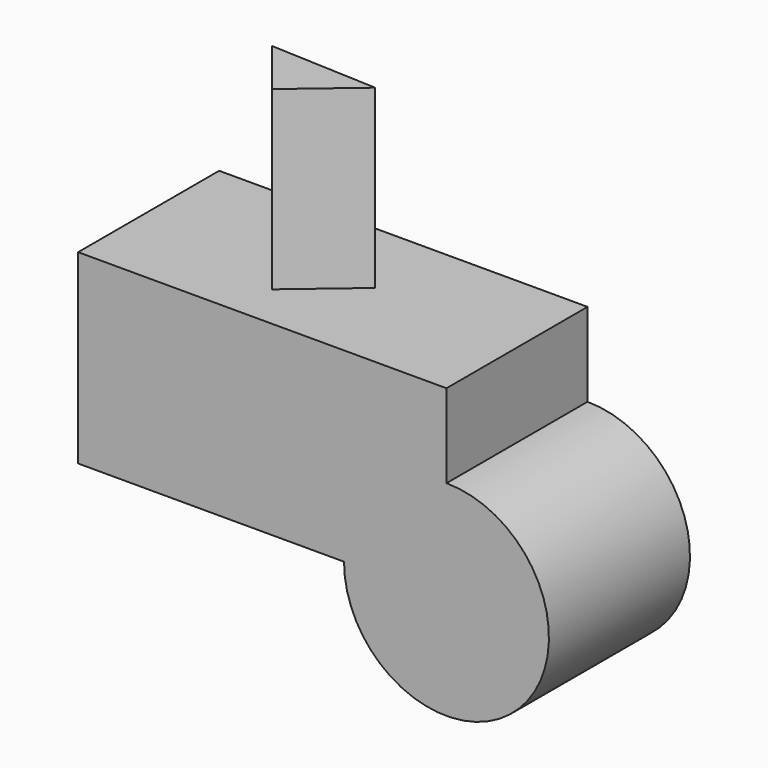
from build123d import *

# Parameters (mm, degrees)
F1_DEPTH = 25.4
F3_DEPTH = 25.4


with BuildPart() as f1:
    # F0 (on Front) → F1 (new body)
    with BuildSketch(Plane.XZ):
        with BuildLine():
            Line((17.6906529814, 57.4946217239), (-35.3813059628, 57.4946217239))
            Line((-35.3813059628, 57.4946217239), (-35.3813059628, 30.6906029582))
            Line((-35.3813059628, 30.6906029582), (2.9289605615, 30.6906029582))
            ThreePointArc((2.9289605615, 30.6906029582), (7.2525601695, 41.1286957701), (17.6906529814, 45.4522953781))
            Line((17.6906529814, 45.4522953781), (17.6906529814, 57.4946217239))
        make_face()
        with BuildLine():
            ThreePointArc((32.4523454013, 30.6906029582), (28.1287457933, 41.1286957701), (17.6906529814, 45.4522953781))
            Line((17.6906529814, 45.4522953781), (17.6906529814, 30.6906029582))
            Line((17.6906529814, 30.6906029582), (2.9289605615, 30.6906029582))
            ThreePointArc((2.9289605615, 30.6906029582), (17.6906529814, 15.9289105383), (32.4523454013, 30.6906029582))
        make_face()
        with BuildLine():
            Line((17.6906529814, 30.6906029582), (17.6906529814, 45.4522953781))
            ThreePointArc((17.6906529814, 45.4522953781), (7.2525601695, 41.1286957701), (2.9289605615, 30.6906029582))
            Line((2.9289605615, 30.6906029582), (17.6906529814, 30.6906029582))
        make_face()
    extrude(amount=F1_DEPTH)

    # F2 (on face) → F3 (join)
    with BuildSketch(Plane.XY.offset(57.4946217239)):
        Polygon((-3.843937302, -11.3314669579), (-19.2128550261, -10.6475185603), (-12.7010382712, -18.8589505851), align=None)
    extrude(amount=F3_DEPTH)


solid = f1.part
